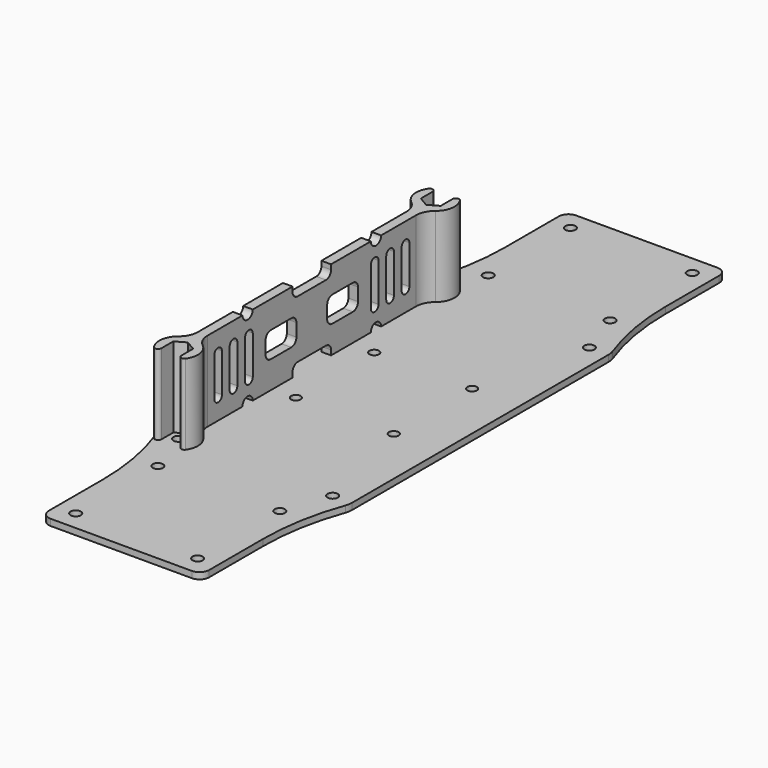
from build123d import *

# Parameters (mm, degrees)
F1_DEPTH  = 2
F2_R      = 1.6002
F2_R_2    = 1.5
F3_DEPTH  = 2.001
F5_DEPTH  = 25
F7_DEPTH  = 3
F10_DEPTH = 4
F11_R     = 1.5
F12_DEPTH = 8


with BuildPart() as f1:
    # F0 (on Top) → F1 (new body)
    with BuildSketch(Plane.XY):
        with BuildLine():
            Line((22, 102.348451), (0, 102.348451))
            Line((0, 102.348451), (-22, 102.348451))
            ThreePointArc((-22, 102.348451), (-24.12132, 101.469772), (-25, 99.348451))
            Line((-25, 99.348451), (-25, 78.348451))
            ThreePointArc((-25, 78.348451), (-26.16837, 64.997616), (-29.637959, 52.052662))
            ThreePointArc((-29.637959, 52.052662), (-29.908796, 51.042173), (-30, 50))
            Line((-30, 50), (-30, -50))
            ThreePointArc((-30, -50), (-29.908796, -51.042173), (-29.637959, -52.052662))
            ThreePointArc((-29.637959, -52.052662), (-26.16837, -64.997616), (-25, -78.348451))
            Line((-25, -78.348451), (-25, -99.348451))
            ThreePointArc((-25, -99.348451), (-24.12132, -101.469772), (-22, -102.348451))
            Line((-22, -102.348451), (0, -102.348451))
            Line((0, -102.348451), (22, -102.348451))
            ThreePointArc((22, -102.348451), (24.12132, -101.469772), (25, -99.348451))
            Line((25, -99.348451), (25, -78.348451))
            ThreePointArc((25, -78.348451), (26.16837, -64.997616), (29.637959, -52.052662))
            ThreePointArc((29.637959, -52.052662), (29.908796, -51.042173), (30, -50))
            Line((30, -50), (30, 50))
            ThreePointArc((30, 50), (29.908796, 51.042173), (29.637959, 52.052662))
            ThreePointArc((29.637959, 52.052662), (26.16837, 64.997616), (25, 78.348451))
            Line((25, 78.348451), (25, 99.348451))
            ThreePointArc((25, 99.348451), (24.12132, 101.469772), (22, 102.348451))
        make_face()
    extrude(amount=-F1_DEPTH)

    # F2 (on face) → F3 (cut, through all)
    with BuildSketch(Plane.XY):
        with Locations((-19, 96.348451)):
            Circle(F2_R)
        with Locations((-19, 64.348451)):
            Circle(F2_R)
        with Locations((-19, -96.348451)):
            Circle(F2_R)
        with Locations((-19, -64.348451)):
            Circle(F2_R)
        with Locations((-24, -50)):
            Circle(F2_R)
        with Locations((-24, 50)):
            Circle(F2_R)
        with Locations((19, 96.348451)):
            Circle(F2_R)
        with Locations((19, 64.348451)):
            Circle(F2_R)
        with Locations((24, 50)):
            Circle(F2_R)
        with Locations((24, -50)):
            Circle(F2_R)
        with Locations((19, -64.348451)):
            Circle(F2_R)
        with Locations((19, -96.348451)):
            Circle(F2_R)
        with Locations((-15.25, -15.25)):
            Circle(F2_R_2)
        with Locations((-15.25, 15.25)):
            Circle(F2_R_2)
        with Locations((15.25, 15.25)):
            Circle(F2_R_2)
        with Locations((15.25, -15.25)):
            Circle(F2_R_2)
    extrude(amount=-F3_DEPTH, mode=Mode.SUBTRACT)


with BuildPart() as f5:
    # F4 (on Top) → F5 (new body)
    with BuildSketch(Plane.XY):
        with BuildLine():
            Line((-20.9, 52.861818), (-20.9, 51.789786))
            Line((-20.9, 51.789786), (-20.9, 48.210214))
            Line((-20.9, 48.210214), (-24, 46.420428))
            Line((-24, 46.420428), (-27.1, 48.210214))
            Line((-27.1, 48.210214), (-27.1, 51.789786))
            Line((-27.1, 51.789786), (-27.1, 52.861818))
            ThreePointArc((-27.1, 52.861818), (-27.8, 53.815757), (-28.92, 53.434181))
            ThreePointArc((-28.92, 53.434181), (-29.938638, 49.144091), (-27.75, 45.316252))
            ThreePointArc((-27.75, 45.316252), (-26.091673, 43.230579), (-25.5, 40.632503))
            Line((-25.5, 40.632503), (-25.5, -40.632503))
            ThreePointArc((-25.5, -40.632503), (-26.091673, -43.230579), (-27.75, -45.316252))
            ThreePointArc((-27.75, -45.316252), (-29.938638, -49.144091), (-28.92, -53.434181))
            ThreePointArc((-28.92, -53.434181), (-27.8, -53.815757), (-27.1, -52.861818))
            Line((-27.1, -52.861818), (-27.1, -51.789786))
            Line((-27.1, -51.789786), (-27.1, -48.210214))
            Line((-27.1, -48.210214), (-24, -46.420428))
            Line((-24, -46.420428), (-20.9, -48.210214))
            Line((-20.9, -48.210214), (-20.9, -51.789786))
            Line((-20.9, -51.789786), (-20.9, -52.861818))
            ThreePointArc((-20.9, -52.861818), (-20.2, -53.815757), (-19.08, -53.434181))
            ThreePointArc((-19.08, -53.434181), (-18.061362, -49.144091), (-20.25, -45.316252))
            ThreePointArc((-20.25, -45.316252), (-21.908327, -43.230579), (-22.5, -40.632503))
            Line((-22.5, -40.632503), (-22.5, 40.632503))
            ThreePointArc((-22.5, 40.632503), (-21.908327, 43.230579), (-20.25, 45.316252))
            ThreePointArc((-20.25, 45.316252), (-18.061362, 49.144091), (-19.08, 53.434181))
            ThreePointArc((-19.08, 53.434181), (-20.2, 53.815757), (-20.9, 52.861818))
        make_face()
    extrude(amount=F5_DEPTH)

    # F6 (on face) → F7 (cut, through all)
    with BuildSketch(Plane(origin=(-25.5, 0, 0), x_dir=(0, -1, 0), z_dir=(-1, 0, 0))):
        with BuildLine():
            ThreePointArc((-6, 14.5), (-6.585786, 15.914214), (-8, 16.5))
            Line((-8, 16.5), (-16, 16.5))
            ThreePointArc((-16, 16.5), (-17.414214, 15.914214), (-18, 14.5))
            Line((-18, 14.5), (-18, 10.5))
            ThreePointArc((-18, 10.5), (-17.414214, 9.085786), (-16, 8.5))
            Line((-16, 8.5), (-8, 8.5))
            ThreePointArc((-8, 8.5), (-6.585786, 9.085786), (-6, 10.5))
            Line((-6, 10.5), (-6, 14.5))
        make_face()
        with BuildLine():
            Line((-7.5, 1.5), (-7.5, 0))
            Line((-7.5, 0), (7.5, 0))
            Line((7.5, 0), (7.5, 1.5))
            ThreePointArc((7.5, 1.5), (6.914214, 2.914214), (5.5, 3.5))
            Line((5.5, 3.5), (-5.5, 3.5))
            ThreePointArc((-5.5, 3.5), (-6.914214, 2.914214), (-7.5, 1.5))
        make_face()
        with BuildLine():
            Line((-23, 25), (-27, 25))
            ThreePointArc((-27, 25), (-25, 23), (-23, 25))
        make_face()
        with BuildLine():
            Line((-27, 0), (-23, 0))
            ThreePointArc((-23, 0), (-25, 2), (-27, 0))
        make_face()
        with BuildLine():
            ThreePointArc((6, 10.5), (6.585786, 9.085786), (8, 8.5))
            Line((8, 8.5), (16, 8.5))
            ThreePointArc((16, 8.5), (17.414214, 9.085786), (18, 10.5))
            Line((18, 10.5), (18, 14.5))
            ThreePointArc((18, 14.5), (17.414214, 15.914214), (16, 16.5))
            Line((16, 16.5), (8, 16.5))
            ThreePointArc((8, 16.5), (6.585786, 15.914214), (6, 14.5))
            Line((6, 14.5), (6, 10.5))
        make_face()
        with BuildLine():
            ThreePointArc((23, 25), (25, 23), (27, 25))
            Line((27, 25), (23, 25))
        make_face()
        with BuildLine():
            Line((23, 0), (27, 0))
            ThreePointArc((27, 0), (25, 2), (23, 0))
        make_face()
        with BuildLine():
            ThreePointArc((-7.5, 23.5), (-6.914214, 22.085786), (-5.5, 21.5))
            Line((-5.5, 21.5), (5.5, 21.5))
            ThreePointArc((5.5, 21.5), (6.914214, 22.085786), (7.5, 23.5))
            Line((7.5, 23.5), (7.5, 25))
            Line((7.5, 25), (-7.5, 25))
            Line((-7.5, 25), (-7.5, 23.5))
        make_face()
        with BuildLine():
            Line((-38, 18.5), (-38, 6.5))
            ThreePointArc((-38, 6.5), (-36.5, 5), (-35, 6.5))
            Line((-35, 6.5), (-35, 18.5))
            ThreePointArc((-35, 18.5), (-36.5, 20), (-38, 18.5))
        make_face()
        with BuildLine():
            ThreePointArc((-32, 6.5), (-30.5, 5), (-29, 6.5))
            Line((-29, 6.5), (-29, 18.5))
            ThreePointArc((-29, 18.5), (-30.5, 20), (-32, 18.5))
            Line((-32, 18.5), (-32, 6.5))
        make_face()
        with BuildLine():
            ThreePointArc((-26, 6.5), (-24.5, 5), (-23, 6.5))
            Line((-23, 6.5), (-23, 18.5))
            ThreePointArc((-23, 18.5), (-24.5, 20), (-26, 18.5))
            Line((-26, 18.5), (-26, 6.5))
        make_face()
        with BuildLine():
            ThreePointArc((29, 6.5), (30.5, 5), (32, 6.5))
            Line((32, 6.5), (32, 18.5))
            ThreePointArc((32, 18.5), (30.5, 20), (29, 18.5))
            Line((29, 18.5), (29, 6.5))
        make_face()
        with BuildLine():
            ThreePointArc((35, 6.5), (36.5, 5), (38, 6.5))
            Line((38, 6.5), (38, 18.5))
            ThreePointArc((38, 18.5), (36.5, 20), (35, 18.5))
            Line((35, 18.5), (35, 6.5))
        make_face()
        with BuildLine():
            ThreePointArc((23, 6.5), (24.5, 5), (26, 6.5))
            Line((26, 6.5), (26, 18.5))
            ThreePointArc((26, 18.5), (24.5, 20), (23, 18.5))
            Line((23, 18.5), (23, 6.5))
        make_face()
    extrude(amount=-F7_DEPTH, mode=Mode.SUBTRACT)


with BuildPart() as f10:
    # F9 (on offset) → F10 (new body, symmetric)
    with BuildSketch(Plane.XY.offset(12.5)):
        with BuildLine():
            Line((-26.25, 19.75), (-26.25, 21.25))
            Line((-26.25, 21.25), (-27.75, 21.25))
            Line((-27.75, 21.25), (-27.75, 15.25))
            Line((-27.75, 15.25), (-27.75, 9.25))
            Line((-27.75, 9.25), (-26.25, 9.25))
            Line((-26.25, 9.25), (-26.25, 10.75))
            ThreePointArc((-26.25, 10.75), (-26.103553, 11.103553), (-25.75, 11.25))
            Line((-25.75, 11.25), (-19.25, 11.25))
            Line((-19.25, 11.25), (-18.25, 12.25))
            Line((-18.25, 12.25), (-15.25, 12.25))
            ThreePointArc((-15.25, 12.25), (-13.12868, 13.12868), (-12.25, 15.25))
            ThreePointArc((-12.25, 15.25), (-13.12868, 17.37132), (-15.25, 18.25))
            Line((-15.25, 18.25), (-18.25, 18.25))
            Line((-18.25, 18.25), (-19.25, 19.25))
            Line((-19.25, 19.25), (-25.75, 19.25))
            ThreePointArc((-25.75, 19.25), (-26.103553, 19.396447), (-26.25, 19.75))
        make_face()
    extrude(amount=F10_DEPTH, both=True)

    # F11 (on face) → F12 (cut, through all)
    with BuildSketch(Plane.XY.offset(16.5)):
        with Locations((-15.25, 15.25)):
            Circle(F11_R)
    extrude(amount=-F12_DEPTH, mode=Mode.SUBTRACT)


solid = Compound([f1.part, f5.part])
